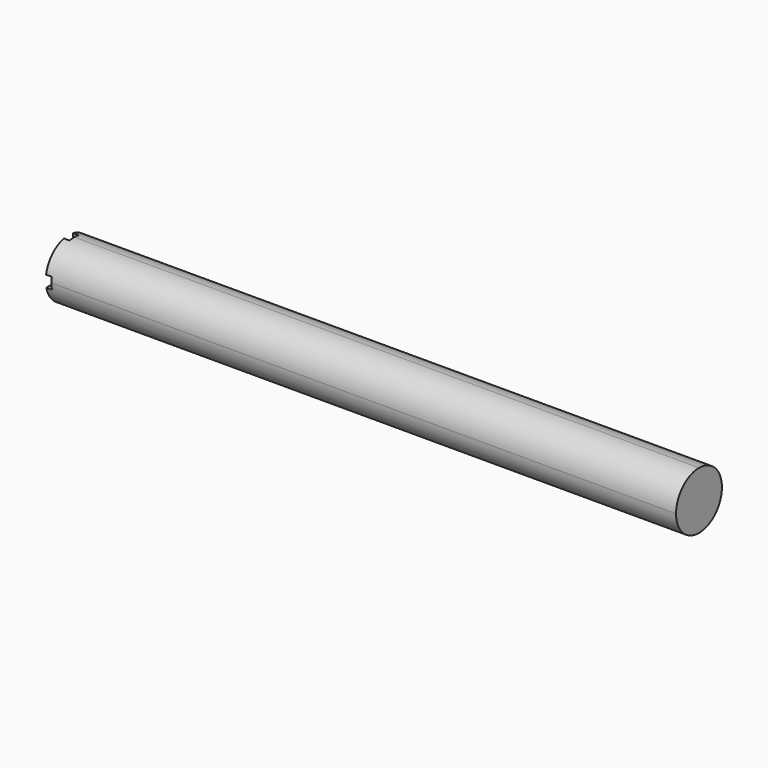
from build123d import *

# Parameters (mm, degrees)
F0_W     = 279.4
F0_H     = 25.4
F1_DEPTH = 25.4
F3_DEPTH = 279.4
F4_R     = 6.35
F5_DEPTH = 25.4
F6_W     = 5.08
F6_H     = 20.8788
F6_W_2   = 46.6979
F6_H_2   = 5.08
F7_DEPTH = 2.54


with BuildPart() as f1:
    # F0 (on Front) → F1 (new body)
    with BuildSketch(Plane.XZ):
        with Locations((139.7, 12.7)):
            Rectangle(F0_W, F0_H)
    extrude(amount=-F1_DEPTH)

    # F2 (on face) → F3 (cut)
    with BuildSketch(Plane(origin=(0, 0, 0), x_dir=(0, -1, 0), z_dir=(-1, 0, 0))):
        with BuildLine():
            Line((0, 0), (0, 12.7))
            ThreePointArc((0, 12.7), (-3.719744, 3.719744), (-12.7, 0))
            Line((-12.7, 0), (0, 0))
        make_face()
        with BuildLine():
            Line((-25.4, 0), (-12.7, 0))
            ThreePointArc((-12.7, 0), (-21.680256, 3.719744), (-25.4, 12.7))
            Line((-25.4, 12.7), (-25.4, 0))
        make_face()
        with BuildLine():
            ThreePointArc((-25.4, 12.7), (-21.680256, 21.680256), (-12.7, 25.4))
            Line((-12.7, 25.4), (-25.4, 25.4))
            Line((-25.4, 25.4), (-25.4, 12.7))
        make_face()
        with BuildLine():
            ThreePointArc((-12.7, 25.4), (-3.719744, 21.680256), (0, 12.7))
            Line((0, 12.7), (0, 25.4))
            Line((0, 25.4), (-12.7, 25.4))
        make_face()
    extrude(amount=-F3_DEPTH, mode=Mode.SUBTRACT)

    # F4 (on Right) → F5 (cut)
    with BuildSketch(Plane.YZ):
        with Locations((12.7, 12.7)):
            Circle(F4_R)
    extrude(amount=F5_DEPTH, mode=Mode.SUBTRACT)

    # F6 (on face) → F7 (cut)
    with BuildSketch(Plane(origin=(0, 0, 0), x_dir=(0, -1, 0), z_dir=(-1, 0, 0))):
        with Locations((-12.623682, 25.426102)):
            Rectangle(F6_W, F6_H)
        with Locations((13.265268, 12.446702)):
            Rectangle(F6_W_2, F6_H_2)
        with Locations((-38.512632, 12.446702)):
            Rectangle(F6_W_2, F6_H_2)
        with Locations((-12.623682, -0.532698)):
            Rectangle(F6_W, F6_H)
    extrude(amount=-F7_DEPTH, mode=Mode.SUBTRACT)


solid = f1.part
